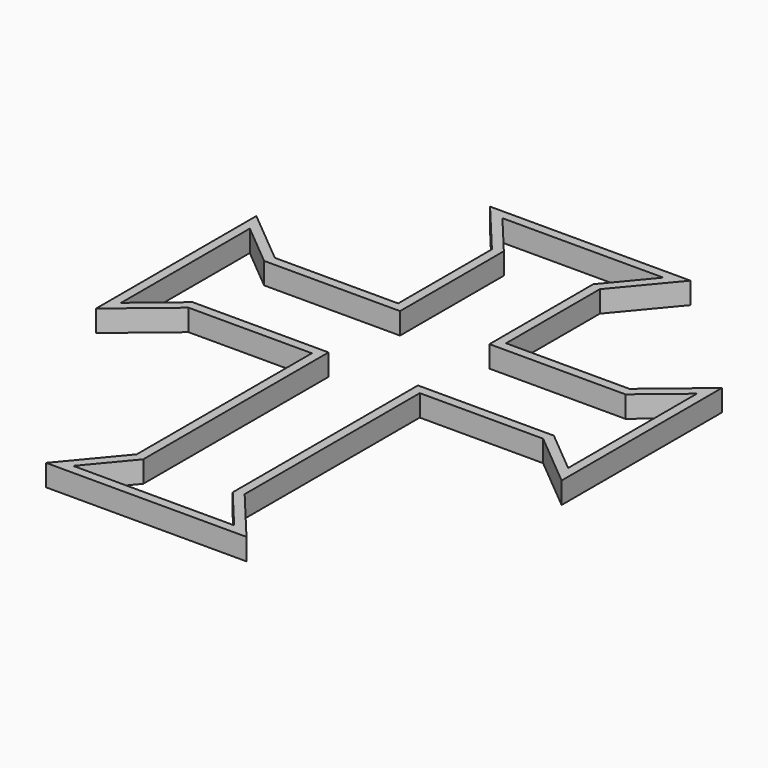
from build123d import *

# Parameters (mm, degrees)
F1_DEPTH = 7
F2_T     = -3
F3_DEPTH = 25


with BuildPart() as f1:
    # F0 (on Top) → F1 (new body)
    with BuildSketch(Plane.XY):
        Polygon((-32.5, 18), (-17.5, 0), (-17.5, -38), (-57.5, -38), (-75.5, -23), (-75.5, -88), (-57.5, -73), (-17.5, -73), (-17.5, -144), (-32.5, -162), (32.5, -162), (17.5, -144), (17.5, -73), (57.5, -73), (75.5, -88), (75.5, -23), (57.5, -38), (17.5, -38), (17.5, 0), (32.5, 18), align=None)
    extrude(amount=F1_DEPTH)

    # F2
    f2_openings = [f1.faces().sort_by_distance(p)[0] for p in [
        (0, -65.365385, 7),
    ]]
    offset(amount=F2_T, openings=f2_openings, kind=Kind.INTERSECTION)

    # F3 (cut): a face of the model
    f3_faces = [f1.faces().sort_by_distance(p)[0] for p in [
        (0, -65.2824145306, 3),
    ]]
    extrude(f3_faces, amount=-F3_DEPTH, mode=Mode.SUBTRACT)


solid = f1.part
